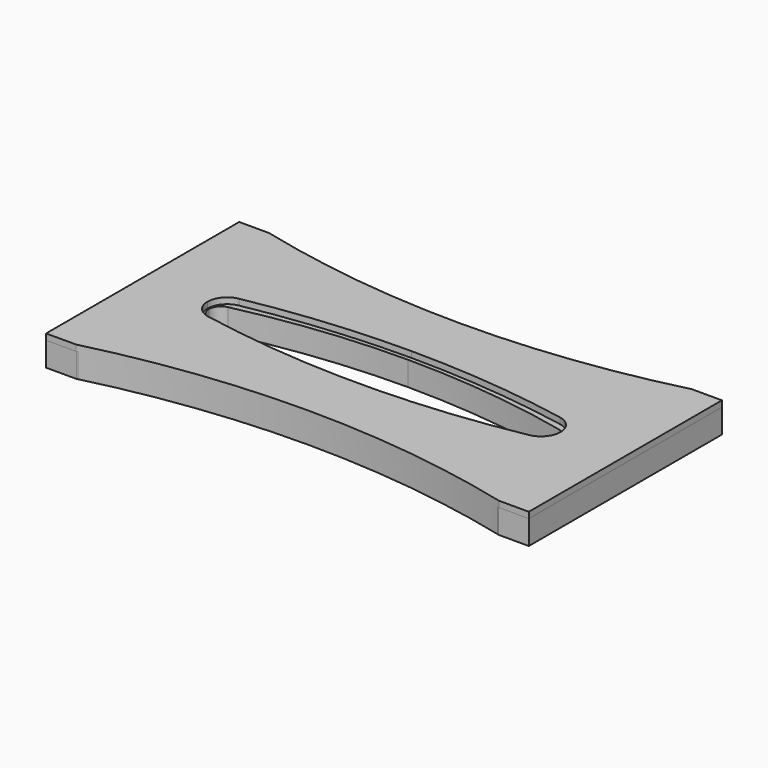
from build123d import *

# Parameters (mm, degrees)
F2_DEPTH = 4
F3_DEPTH = 5
F5_DEPTH = 4


with BuildPart() as f2:
    # F0 (on Top) → F2 (new body)
    with BuildSketch(Plane.XY):
        with BuildLine():
            Line((0, 5.489777), (0, 15.489777))
            ThreePointArc((0, 15.489777), (-17.768387, 16.621911), (-35.249401, 20))
            Line((-35.249401, 20), (-40, 20))
            Line((-40, 20), (-40, 0))
            Line((-40, 0), (-29, 0))
            ThreePointArc((-29, 0), (-28.313874, 1.909446), (-26.569343, 2.945479))
            ThreePointArc((-26.569343, 2.945479), (-13.345443, 4.852251), (0, 5.489777))
        make_face()
        with BuildLine():
            Line((35.249401, -20), (40, -20))
            Line((40, -20), (40, 20))
            Line((40, 20), (35.249401, 20))
            ThreePointArc((35.249401, 20), (17.768387, 16.621911), (0, 15.489777))
            Line((0, 15.489777), (0, 5.489777))
            ThreePointArc((0, 5.489777), (13.345443, 4.852251), (26.569343, 2.945479))
            ThreePointArc((26.569343, 2.945479), (28.313874, 1.909446), (29, 0))
            ThreePointArc((29, 0), (28.313874, -1.909446), (26.569343, -2.945479))
            ThreePointArc((26.569343, -2.945479), (0, -5.489777), (-26.569343, -2.945479))
            ThreePointArc((-26.569343, -2.945479), (-28.313874, -1.909446), (-29, 0))
            Line((-29, 0), (-40, 0))
            Line((-40, 0), (-40, -20))
            Line((-40, -20), (-35.249401, -20))
            ThreePointArc((-35.249401, -20), (0, -15.489777), (35.249401, -20))
        make_face()
    extrude(amount=F2_DEPTH)


with BuildPart() as f3:
    # F1 (on Top) → F3 (new body)
    with BuildSketch(Plane.XY):
        with BuildLine():
            Line((35.03796, -20), (40, -20))
            Line((40, -20), (40, 20))
            Line((40, 20), (35.03796, 20))
            ThreePointArc((35.03796, 20), (17.65211, 16.758293), (0, 15.672264))
            Line((0, 15.672264), (0, 5.672264))
            ThreePointArc((0, 5.672264), (13.357773, 5.051377), (26.600355, 3.194069))
            ThreePointArc((26.600355, 3.194069), (29.25, 0), (26.600355, -3.194069))
            ThreePointArc((26.600355, -3.194069), (0, -5.672264), (-26.600355, -3.194069))
            ThreePointArc((-26.600355, -3.194069), (-28.501365, -2.075012), (-29.25, 0))
            Line((-29.25, 0), (-40, 0))
            Line((-40, 0), (-40, -20))
            Line((-40, -20), (-35.03796, -20))
            ThreePointArc((-35.03796, -20), (0, -15.672264), (35.03796, -20))
        make_face()
        with BuildLine():
            Line((0, 5.672264), (0, 15.672264))
            ThreePointArc((0, 15.672264), (-17.65211, 16.758293), (-35.03796, 20))
            Line((-35.03796, 20), (-40, 20))
            Line((-40, 20), (-40, 0))
            Line((-40, 0), (-29.25, 0))
            ThreePointArc((-29.25, 0), (-28.501365, 2.075012), (-26.600355, 3.194069))
            ThreePointArc((-26.600355, 3.194069), (-13.357773, 5.051377), (0, 5.672264))
        make_face()
    extrude(amount=F3_DEPTH)


with BuildPart() as f5:
    # F4 (on Top) → F5 (new body)
    with BuildSketch(Plane.XY):
        with BuildLine():
            Line((35, -20), (40, -20))
            Line((40, -20), (40, 20))
            Line((40, 20), (35, 20))
            ThreePointArc((35, 20), (17.67767, 16.256313), (0, 15))
            Line((0, 15), (0, 5))
            ThreePointArc((0, 5), (13.803941, 4.235467), (27.439024, 1.95122))
            ThreePointArc((27.439024, 1.95122), (28.561738, 1.24939), (29, 0))
            ThreePointArc((29, 0), (28.561738, -1.24939), (27.439024, -1.95122))
            ThreePointArc((27.439024, -1.95122), (0, -5), (-27.439024, -1.95122))
            ThreePointArc((-27.439024, -1.95122), (-28.561738, -1.24939), (-29, 0))
            Line((-29, 0), (-40, 0))
            Line((-40, 0), (-40, -20))
            Line((-40, -20), (-35, -20))
            ThreePointArc((-35, -20), (0, -15), (35, -20))
        make_face()
        with BuildLine():
            Line((0, 5), (0, 15))
            ThreePointArc((0, 15), (-17.67767, 16.256313), (-35, 20))
            Line((-35, 20), (-40, 20))
            Line((-40, 20), (-40, 0))
            Line((-40, 0), (-29, 0))
            ThreePointArc((-29, 0), (-28.561738, 1.24939), (-27.439024, 1.95122))
            ThreePointArc((-27.439024, 1.95122), (-13.803941, 4.235467), (0, 5))
        make_face()
    extrude(amount=F5_DEPTH)


solid = Compound([f2.part, f3.part, f5.part])
